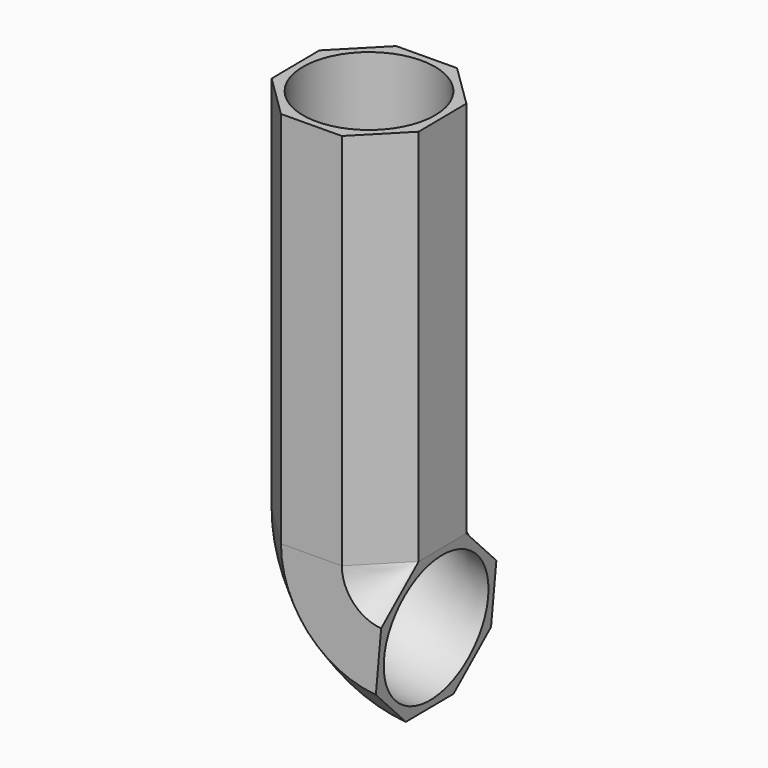
from build123d import *

# Parameters (mm, degrees)
F0_R     = 23.4518638388
F1_ANGLE = 85
F2_DEPTH = 134.62


with BuildPart() as f1:
    # F0 (on Top) → F1 (revolve)
    with BuildSketch(Plane.XY):
        Polygon((25.8333600402, 11.0059764155), (10.4845435083, 26.0493446223), (-11.0059764155, 25.8333600402), (-26.0493446223, 10.4845435083), (-25.8333600402, -11.0059764155), (-10.4845435083, -26.0493446223), (11.0059764155, -25.8333600402), (26.0493446223, -10.4845435083), align=None)
        Circle(F0_R, mode=Mode.SUBTRACT)
    revolve(axis=Axis((25.9413523312, 0.2607164536, 0), (0.0100497185, -0.9999495003, 0)), revolution_arc=F1_ANGLE)

    # F0 (on Top) → F2 (join)
    with BuildSketch(Plane.XY):
        Polygon((25.8333600402, 11.0059764155), (10.4845435083, 26.0493446223), (-11.0059764155, 25.8333600402), (-26.0493446223, 10.4845435083), (-25.8333600402, -11.0059764155), (-10.4845435083, -26.0493446223), (11.0059764155, -25.8333600402), (26.0493446223, -10.4845435083), align=None)
        Circle(F0_R, mode=Mode.SUBTRACT)
    extrude(amount=F2_DEPTH)


solid = f1.part
